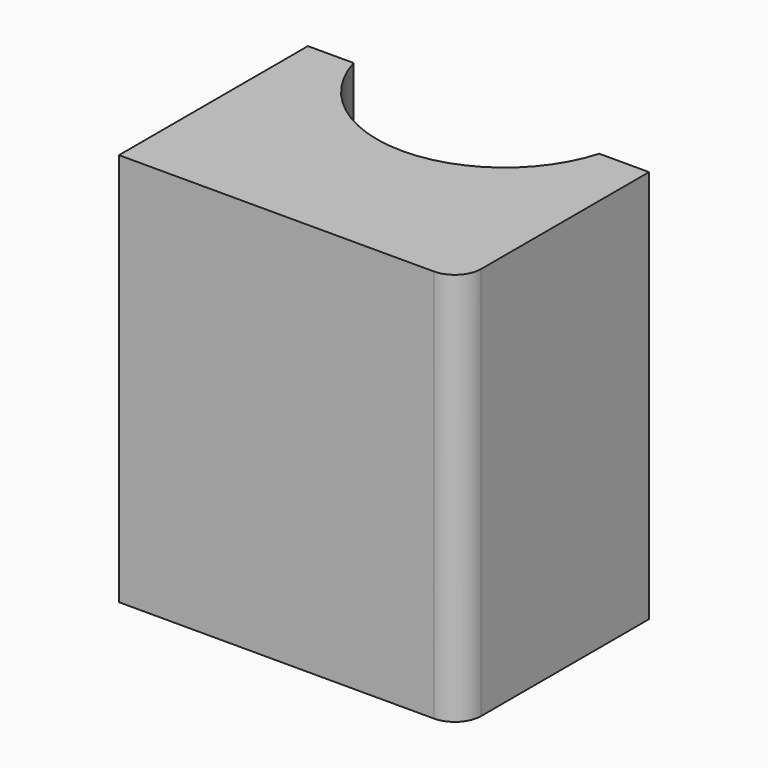
from build123d import *

# Parameters (mm, degrees)
F1_DEPTH = 75
F2_R     = 5


with BuildPart() as f1:
    # F0 (on Top) → F1 (new body)
    with BuildSketch(Plane.XY):
        with BuildLine():
            Line((-23.66752, 26.337069), (-23.66752, -18.662931))
            Line((-23.66752, -18.662931), (41.33248, -18.662931))
            Line((41.33248, -18.662931), (41.33248, 26.337069))
            Line((41.33248, 26.337069), (31.841161, 26.337069))
            ThreePointArc((31.841161, 26.337069), (8.445234, 8.710863), (-14.950693, 26.337069))
            Line((-14.950693, 26.337069), (-23.66752, 26.337069))
        make_face()
    extrude(amount=F1_DEPTH)

    # F2
    f2_edges = [f1.edges().sort_by_distance(p)[0] for p in [
        (41.33248, -18.662931, 37.5),
    ]]
    fillet(f2_edges, radius=F2_R)


solid = f1.part
